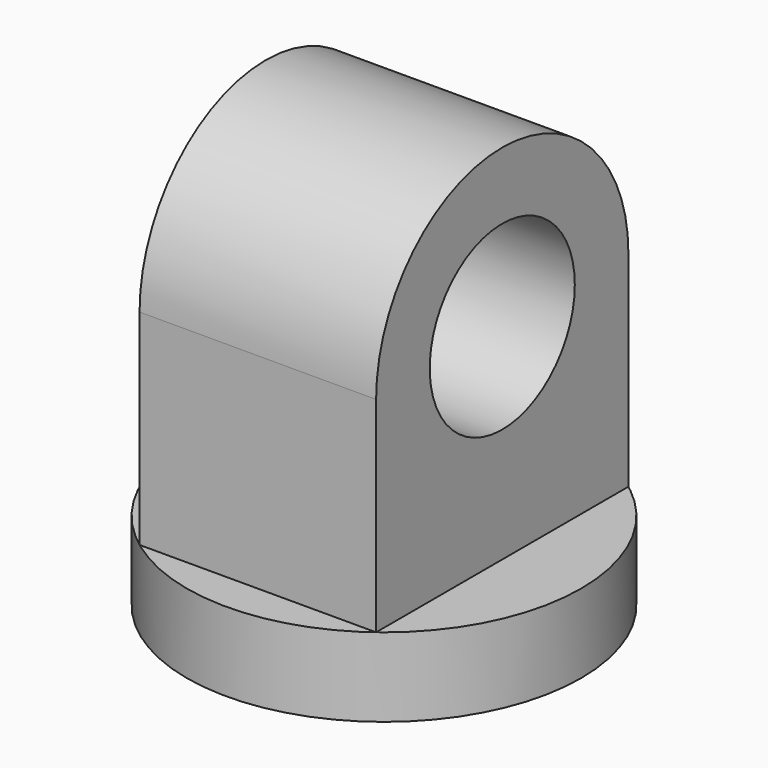
from build123d import *

# Parameters (mm, degrees)
F0_R     = 25
F1_DEPTH = 10
F2_R     = 11.5
F3_DEPTH = 15


with BuildPart() as f1:
    # F0 (on Top) → F1 (new body)
    with BuildSketch(Plane.XY):
        Circle(F0_R)
    extrude(amount=F1_DEPTH)


with BuildPart() as f3:
    # F2 (on Right) → F3 (new body, symmetric)
    with BuildSketch(Plane.YZ):
        with BuildLine():
            Line((-20, 36), (-20, 10))
            Line((-20, 10), (20.000002, 10))
            Line((20.000002, 10), (20.000002, 36))
            ThreePointArc((20.000002, 36), (1e-06, 56.000001), (-20, 36))
        make_face()
        with Locations((1e-06, 36)):
            Circle(F2_R, mode=Mode.SUBTRACT)
    extrude(amount=F3_DEPTH, both=True)


solid = Compound([f1.part, f3.part])
